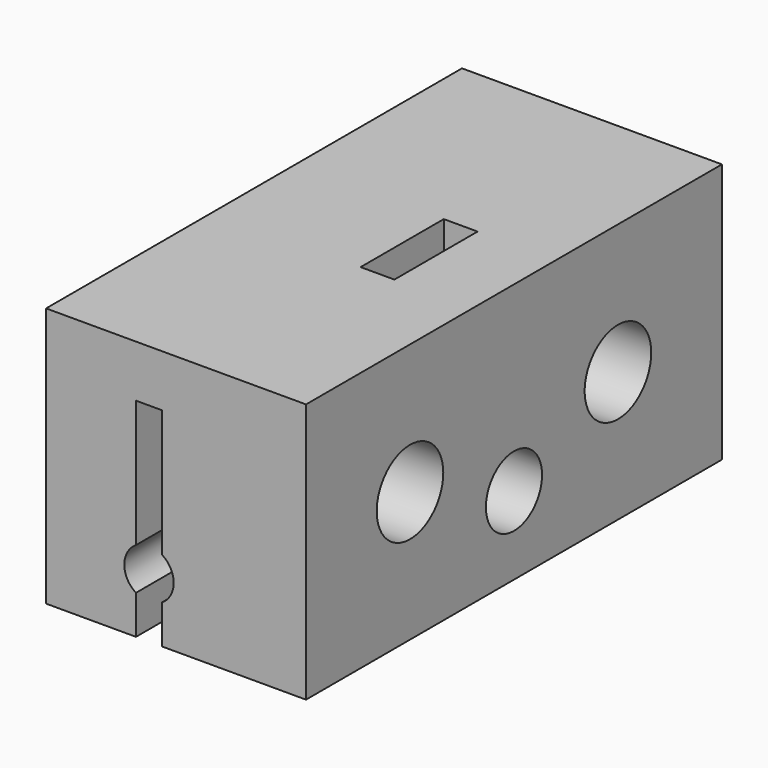
from build123d import *

# Parameters (mm, degrees)
BOX_W           = 10
BOX_H           = 20
BOX_DEPTH       = 10
POCKET_DEPTH    = 20.001
POCKET001_DEPTH = 2.4
SKETCH002_R     = 1.6
POCKET002_DEPTH = 10.001
SKETCH003_W     = 1.3
SKETCH003_H     = 4
POCKET003_DEPTH = 10.001
SKETCH004_R     = 1.35
POCKET004_DEPTH = 3


with BuildPart() as part:
    # Box → Box (new body)
    with BuildSketch(Plane.XY):
        with Locations((5, 10)):
            Rectangle(BOX_W, BOX_H)
    extrude(amount=BOX_DEPTH)

    # Sketch → Pocket (cut, through all)
    with BuildSketch(Plane.XZ):
        with BuildLine():
            Line((3.458295, 0), (3.458295, 1.492225))
            ThreePointArc((3.458295, 3.107775), (3.008295, 2.3), (3.458295, 1.492225))
            Line((3.458295, 3.107775), (3.458295, 8))
            Line((3.458295, 8), (4.458295, 8))
            Line((4.458295, 8), (4.458295, 3.107775))
            ThreePointArc((4.458295, 1.492225), (4.908295, 2.3), (4.458295, 3.107775))
            Line((4.458295, 1.492225), (4.458295, 0))
            Line((3.458295, 0), (4.458295, 0))
        make_face()
    extrude(amount=-POCKET_DEPTH, mode=Mode.SUBTRACT)

    # Sketch001 → Pocket001 (cut)
    with BuildSketch(Plane(origin=(0, 0, 0), x_dir=(0, -1, 0), z_dir=(-1, 0, 0))):
        Polygon((-8.25, 6.876388), (-8.25, 3.123612), (-5, 1.247223), (-1.75, 3.123612), (-1.75, 6.876388), (-5, 8.752777), align=None)
        Polygon((-18.25, 6.876388), (-18.25, 3.123612), (-15, 1.247223), (-11.75, 3.123612), (-11.75, 6.876388), (-15, 8.752777), align=None)
    extrude(amount=-POCKET001_DEPTH, mode=Mode.SUBTRACT)

    # Sketch002 → Pocket002 (cut, through all)
    with BuildSketch(Plane.YZ.offset(10)):
        with Locations((5, 5)):
            Circle(SKETCH002_R)
        with Locations((15, 5)):
            Circle(SKETCH002_R)
    extrude(amount=-POCKET002_DEPTH, mode=Mode.SUBTRACT)

    # Sketch003 → Pocket003 (cut, through all)
    with BuildSketch(Plane.XY.offset(10)):
        with Locations((6.35, 10)):
            Rectangle(SKETCH003_W, SKETCH003_H)
    extrude(amount=-POCKET003_DEPTH, mode=Mode.SUBTRACT)

    # Sketch004 → Pocket004 (cut)
    with BuildSketch(Plane.YZ.offset(10)):
        with Locations((10, 3)):
            Circle(SKETCH004_R)
    extrude(amount=-POCKET004_DEPTH, mode=Mode.SUBTRACT)


solid = part.part
